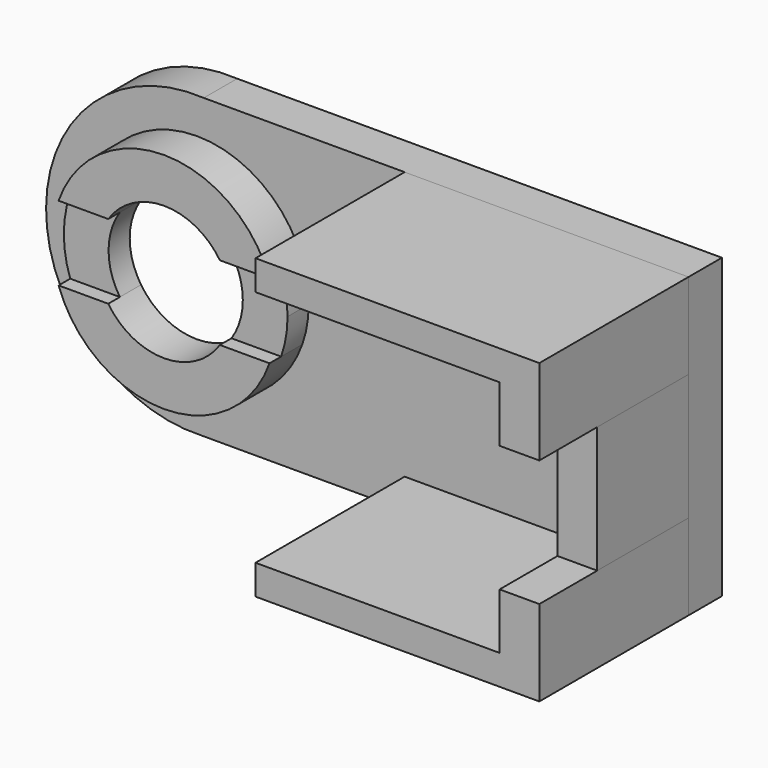
from build123d import *

# Parameters (mm, degrees)
F0_W     = 13.0633687865
F0_H     = 4
F1_DEPTH = 25
F0_W_2   = 5.3273958752
F0_H_2   = 16.9470865311
F2_DEPTH = 15.29844
F3_DEPTH = 5.60268
F4_DEPTH = 5.50137
F5_DEPTH = 3.54962


with BuildPart() as f1:
    # F0 (on Front) → F1 (new body)
    with BuildSketch(Plane.XZ):
        with Locations((-17.3018605316, 17.7946619055)):
            Rectangle(F0_W, F0_H)
        Polygon((14.2298238616, 19.7946619055), (-10.7701761384, 19.7946619055), (-10.7701761384, 15.7946619055), (8.9024279864, 15.7946619055), (8.9024279864, 8.2946619055), (14.2298238616, 8.2946619055), align=None)
    extrude(amount=F1_DEPTH)


with BuildPart() as f1b:
    # F0 (on Front) → F1, piece 2 (new body)
    with BuildSketch(Plane.XZ):
        with Locations((-17.3018605316, -18.1524246256)):
            Rectangle(F0_W, F0_H)
        Polygon((-10.7701761384, -16.1524246256), (-10.7701761384, -20.1524246256), (14.2298238616, -20.1524246256), (14.2298238616, -8.6524246256), (8.9024279864, -8.6524246256), (8.9024279864, -16.1524246256), align=None)
    extrude(amount=F1_DEPTH)


with BuildPart() as f2:
    # F0 (on Front) → F2 (new body)
    with BuildSketch(Plane.XZ):
        with Locations((11.566125924, -0.17888136)):
            Rectangle(F0_W_2, F0_H_2)
    extrude(amount=F2_DEPTH)


with BuildPart() as f3:
    # F0 (on Front) → F3 (new body)
    with BuildSketch(Plane.XZ):
        with BuildLine():
            Line((-23.8335449249, 19.7946619055), (-50.7701761384, 19.7946619055))
            ThreePointArc((-50.7701761384, 19.7946619055), (-71.9127214151, -0.0507043658), (-51.0137591008, -20.1524246256))
            Line((-51.0137591008, -20.1524246256), (-23.8335449249, -20.1524246256))
            Line((-23.8335449249, -20.1524246256), (-23.8335449249, -16.1524246256))
            Line((-23.8335449249, -16.1524246256), (-10.7701761384, -16.1524246256))
            Line((-10.7701761384, -16.1524246256), (8.9024279864, -16.1524246256))
            Line((8.9024279864, -16.1524246256), (8.9024279864, -8.6524246256))
            Line((8.9024279864, -8.6524246256), (8.9024279864, 8.2946619055))
            Line((8.9024279864, 8.2946619055), (8.9024279864, 15.7946619055))
            Line((8.9024279864, 15.7946619055), (-10.7701761384, 15.7946619055))
            Line((-10.7701761384, 15.7946619055), (-23.8335449249, 15.7946619055))
            Line((-23.8335449249, 15.7946619055), (-23.8335449249, 19.7946619055))
        make_face()
        with BuildLine():
            ThreePointArc((-65.8362626746, 5), (-51.6941270508, 15), (-37.5519914271, 5))
            ThreePointArc((-37.5519914271, 5), (-36.910148656, 2.5365296809), (-36.6941270508, 0))
            ThreePointArc((-36.6941270508, 0), (-36.910148656, -2.5365296809), (-37.5519914271, -5))
            ThreePointArc((-37.5519914271, -5), (-51.6941270508, -15), (-65.8362626746, -5))
            ThreePointArc((-65.8362626746, -5), (-66.6941270508, 0), (-65.8362626746, 5))
        make_face(mode=Mode.SUBTRACT)
        with Locations((-17.3018605316, 17.7946619055)):
            Rectangle(F0_W, F0_H)
        with Locations((-17.3018605316, -18.1524246256)):
            Rectangle(F0_W, F0_H)
        Polygon((14.2298238616, 19.7946619055), (-10.7701761384, 19.7946619055), (-10.7701761384, 15.7946619055), (8.9024279864, 15.7946619055), (8.9024279864, 8.2946619055), (14.2298238616, 8.2946619055), align=None)
        Polygon((-10.7701761384, -16.1524246256), (-10.7701761384, -20.1524246256), (14.2298238616, -20.1524246256), (14.2298238616, -8.6524246256), (8.9024279864, -8.6524246256), (8.9024279864, -16.1524246256), align=None)
        with Locations((11.566125924, -0.17888136)):
            Rectangle(F0_W_2, F0_H_2)
        with BuildLine():
            Line((-23.8335449249, 19.7946619055), (-50.7701761384, 19.7946619055))
            ThreePointArc((-50.7701761384, 19.7946619055), (-71.9127214151, -0.0507043658), (-51.0137591008, -20.1524246256))
            Line((-51.0137591008, -20.1524246256), (-23.8335449249, -20.1524246256))
            Line((-23.8335449249, -20.1524246256), (-23.8335449249, -16.1524246256))
            Line((-23.8335449249, -16.1524246256), (-10.7701761384, -16.1524246256))
            Line((-10.7701761384, -16.1524246256), (8.9024279864, -16.1524246256))
            Line((8.9024279864, -16.1524246256), (8.9024279864, -8.6524246256))
            Line((8.9024279864, -8.6524246256), (8.9024279864, 8.2946619055))
            Line((8.9024279864, 8.2946619055), (8.9024279864, 15.7946619055))
            Line((8.9024279864, 15.7946619055), (-10.7701761384, 15.7946619055))
            Line((-10.7701761384, 15.7946619055), (-23.8335449249, 15.7946619055))
            Line((-23.8335449249, 15.7946619055), (-23.8335449249, 19.7946619055))
        make_face()
        with BuildLine():
            ThreePointArc((-65.8362626746, 5), (-51.6941270508, 15), (-37.5519914271, 5))
            ThreePointArc((-37.5519914271, 5), (-36.910148656, 2.5365296809), (-36.6941270508, 0))
            ThreePointArc((-36.6941270508, 0), (-36.910148656, -2.5365296809), (-37.5519914271, -5))
            ThreePointArc((-37.5519914271, -5), (-51.6941270508, -15), (-65.8362626746, -5))
            ThreePointArc((-65.8362626746, -5), (-66.6941270508, 0), (-65.8362626746, 5))
        make_face(mode=Mode.SUBTRACT)
    extrude(amount=-F3_DEPTH)


with BuildPart() as f4:
    # F0 (on Front) → F4 (new body)
    with BuildSketch(Plane.XZ):
        with BuildLine():
            Line((-37.5519914271, -5), (-44.2108122773, -5))
            ThreePointArc((-44.2108122773, -5), (-51.6941270508, -9), (-59.1774418244, -5))
            Line((-59.1774418244, -5), (-65.8362626746, -5))
            ThreePointArc((-65.8362626746, -5), (-51.6941270508, -15), (-37.5519914271, -5))
        make_face()
    extrude(amount=F4_DEPTH)


with BuildPart() as f4b:
    # F0 (on Front) → F4, piece 2 (new body)
    with BuildSketch(Plane.XZ):
        with BuildLine():
            ThreePointArc((-59.1774418244, 5), (-51.6941270508, 9), (-44.2108122773, 5))
            Line((-44.2108122773, 5), (-37.5519914271, 5))
            ThreePointArc((-37.5519914271, 5), (-51.6941270508, 15), (-65.8362626746, 5))
            Line((-65.8362626746, 5), (-59.1774418244, 5))
        make_face()
    extrude(amount=F4_DEPTH)


with BuildPart() as f5:
    # F0 (on Front) → F5 (new body)
    with BuildSketch(Plane.XZ):
        with BuildLine():
            ThreePointArc((-59.1774418244, -5), (-60.6941270508, 0), (-59.1774418244, 5))
            Line((-59.1774418244, 5), (-65.8362626746, 5))
            ThreePointArc((-65.8362626746, 5), (-66.6941270508, 0), (-65.8362626746, -5))
            Line((-65.8362626746, -5), (-59.1774418244, -5))
        make_face()
    extrude(amount=F5_DEPTH)


with BuildPart() as f5b:
    # F0 (on Front) → F5, piece 2 (new body)
    with BuildSketch(Plane.XZ):
        with BuildLine():
            ThreePointArc((-44.2108122773, 5), (-43.0816409707, 2.6124860802), (-42.6941270508, 0))
            ThreePointArc((-42.6941270508, 0), (-43.0816409707, -2.6124860802), (-44.2108122773, -5))
            Line((-44.2108122773, -5), (-37.5519914271, -5))
            ThreePointArc((-37.5519914271, -5), (-36.910148656, -2.5365296809), (-36.6941270508, 0))
            ThreePointArc((-36.6941270508, 0), (-36.910148656, 2.5365296809), (-37.5519914271, 5))
            Line((-37.5519914271, 5), (-44.2108122773, 5))
        make_face()
    extrude(amount=F5_DEPTH)


solid = Compound([f1.part, f1b.part, f2.part, f3.part, f4.part, f4b.part, f5.part, f5b.part])
